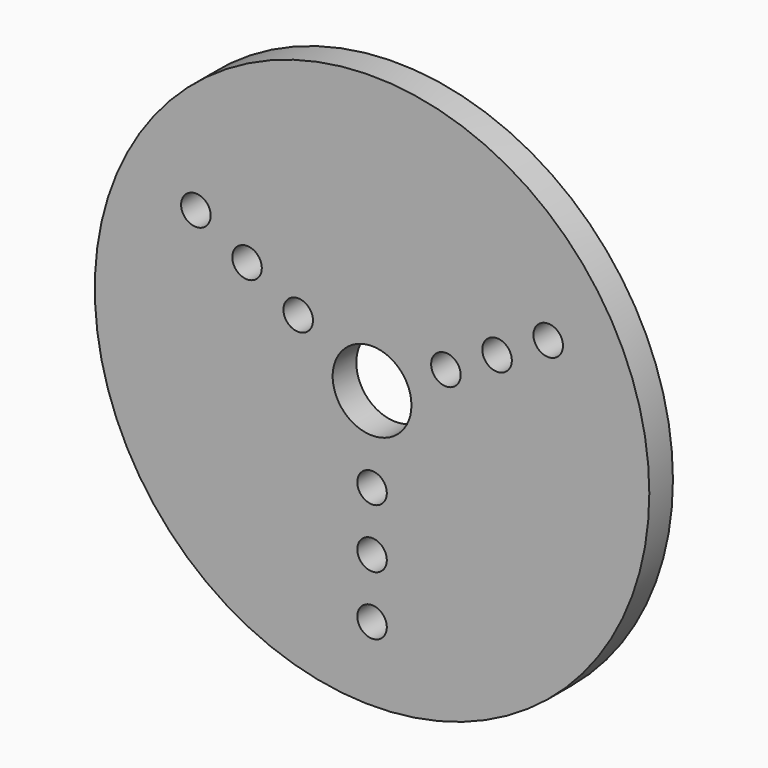
from build123d import *

# Parameters (mm, degrees)
F0_R     = 28.160254
F0_R_2   = 1.5
F0_R_3   = 4
F1_DEPTH = 3


with BuildPart() as f1:
    # F0 (on Front) → F1 (new body)
    with BuildSketch(Plane.XZ):
        Circle(F0_R)
        with Locations((0, -20.660254)):
            Circle(F0_R_2, mode=Mode.SUBTRACT)
        with Locations((0, -14.660254)):
            Circle(F0_R_2, mode=Mode.SUBTRACT)
        with Locations((0, -8.660254)):
            Circle(F0_R_2, mode=Mode.SUBTRACT)
        with Locations((-17.892305, 10.330127)):
            Circle(F0_R_2, mode=Mode.SUBTRACT)
        with Locations((-7.5, 4.330127)):
            Circle(F0_R_2, mode=Mode.SUBTRACT)
        with Locations((-12.696152, 7.330127)):
            Circle(F0_R_2, mode=Mode.SUBTRACT)
        Circle(F0_R_3, mode=Mode.SUBTRACT)
        with Locations((7.5, 4.330127)):
            Circle(F0_R_2, mode=Mode.SUBTRACT)
        with Locations((12.696152, 7.330127)):
            Circle(F0_R_2, mode=Mode.SUBTRACT)
        with Locations((17.892305, 10.330127)):
            Circle(F0_R_2, mode=Mode.SUBTRACT)
    extrude(amount=F1_DEPTH)


solid = f1.part
